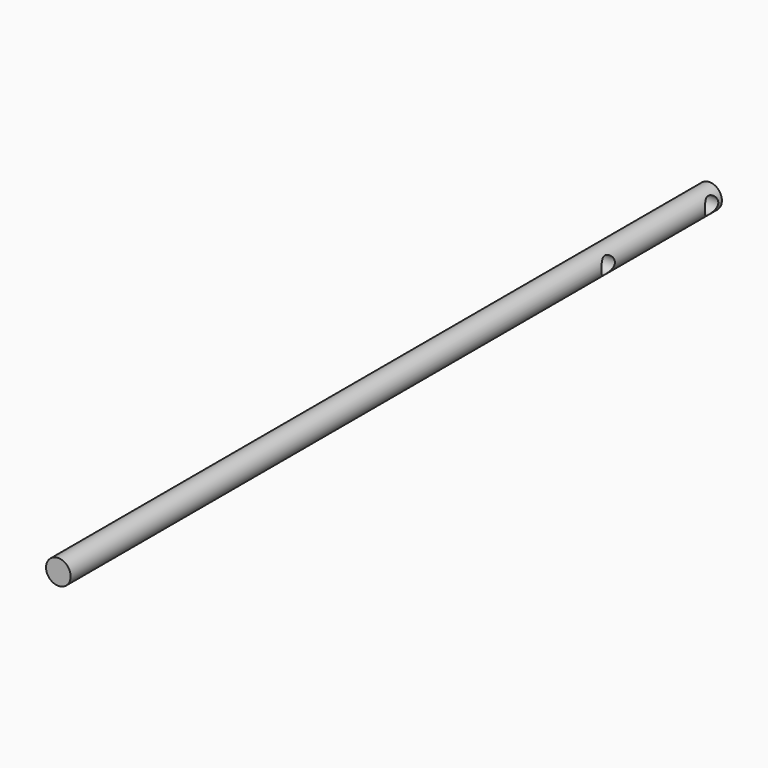
from build123d import *

# Parameters (mm, degrees)
F0_R          = 9.5
F1_DEPTH      = 630
F2_R          = 6.5
F3_DEPTH      = 25
F3_DEPTH_BACK = 25


with BuildPart() as f1:
    # F0 (on Front) → F1 (new body)
    with BuildSketch(Plane.XZ):
        Circle(F0_R)
    extrude(amount=F1_DEPTH)

    # F2 (on Right) → F3 (cut, two sides)
    with BuildSketch(Plane.YZ) as f3_sk:
        with Locations((-10, 0)):
            Circle(F2_R)
        with Locations((-110, 0)):
            Circle(F2_R)
    extrude(amount=F3_DEPTH, mode=Mode.SUBTRACT)
    extrude(f3_sk.sketch, amount=-F3_DEPTH_BACK, mode=Mode.SUBTRACT)


solid = f1.part
